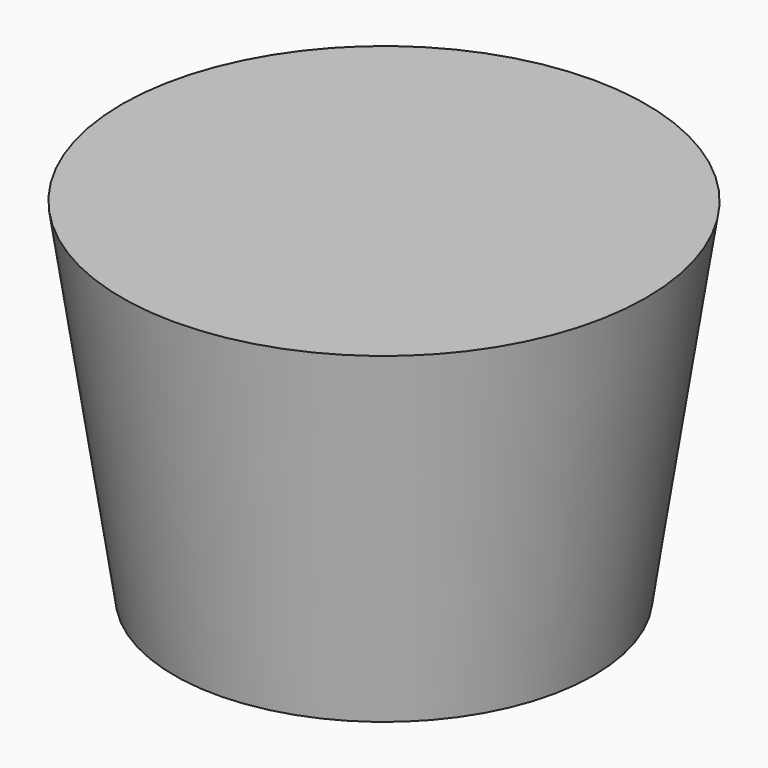
from build123d import *

# Parameters (mm, degrees)
F0_R     = 7.62
F2_R     = 9.525
F4_R     = 6.35
F5_DEPTH = 6.35


with BuildPart() as f3:
    # F0 (on Top) → F3 section 0
    with BuildSketch(Plane.XY):
        Circle(F0_R)
    # F2 (on offset) → F3 section 1
    with BuildSketch(Plane.XY.offset(12.7)):
        Circle(F2_R)
    loft()

    # F4 (on face) → F5 (cut)
    with BuildSketch(Plane(origin=(0, 0, 0), x_dir=(1, 0, 0), z_dir=(0, 0, -1))):
        Circle(F4_R)
    extrude(amount=-F5_DEPTH, mode=Mode.SUBTRACT)


solid = f3.part
